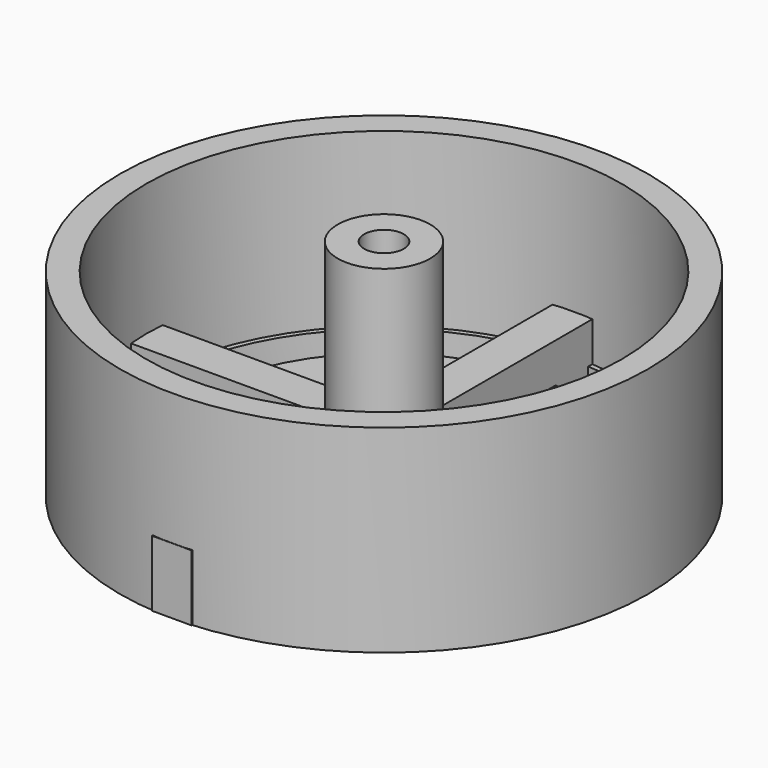
from build123d import *

# Parameters (mm, degrees)
F0_R      = 20
F1_DEPTH  = 15
F2_R      = 18
F3_DEPTH  = 13
F4_R      = 3.5
F4_R_2    = 1.5
F5_DEPTH  = 15
F6_R      = 17.615069
F6_R_2    = 14.536454
F7_DEPTH  = 25
F8_DEPTH  = 25
F9_W      = 3
F9_H      = 19.99929
F10_DEPTH = 5
F12_DEPTH = 5


with BuildPart() as f1:
    # F0 (on Top) → F1 (new body)
    with BuildSketch(Plane.XY):
        Circle(F0_R)
    extrude(amount=F1_DEPTH)

    # F2 (on face) → F3 (cut)
    with BuildSketch(Plane.XY.offset(15)):
        Circle(F2_R)
    extrude(amount=-F3_DEPTH, mode=Mode.SUBTRACT)

    # F4 (on face) → F5 (join)
    with BuildSketch(Plane.XY.offset(2)):
        Circle(F4_R)
        Circle(F4_R_2, mode=Mode.SUBTRACT)
    extrude(amount=F5_DEPTH)

    # F6 (on face) → F7 (cut)
    with BuildSketch(Plane(origin=(0, 0, 0), x_dir=(1, 0, 0), z_dir=(0, 0, -1))):
        Circle(F6_R)
        Circle(F6_R_2, mode=Mode.SUBTRACT)
    extrude(amount=-F7_DEPTH, mode=Mode.SUBTRACT)

    # F6 (on face) → F8 (cut)
    with BuildSketch(Plane(origin=(0, 0, 0), x_dir=(1, 0, 0), z_dir=(0, 0, -1))):
        Circle(F6_R)
        Circle(F6_R_2, mode=Mode.SUBTRACT)
    extrude(amount=-F8_DEPTH, mode=Mode.SUBTRACT)


with BuildPart() as f10:
    # F9 (on Top) → F10 (new body)
    with BuildSketch(Plane.XY):
        Polygon((-1.567621, 19.808128), (-1.567621, 0), (1.432379, 0), (1.432379, 19.735267), align=None)
        with Locations((-0.067621, -9.999645)):
            Rectangle(F9_W, F9_H)
    extrude(amount=F10_DEPTH)


with BuildPart() as f12:
    # F11 (on Top) → F12 (new body)
    with BuildSketch(Plane.XY):
        with BuildLine():
            Line((-1.292468, -1.533205), (-1.292468, -1.469076))
            ThreePointArc((-1.292468, -1.469076), (-1.254497, -1.501632), (-1.215706, -1.533205))
            Line((-1.215706, -1.533205), (1.215706, -1.533205))
            Line((1.215706, -1.533205), (18.215706, -1.533205))
            Line((18.215706, -1.533205), (18.215706, 1.466795))
            Line((18.215706, 1.466795), (1.215706, 1.466795))
            Line((1.215706, 1.466795), (1.215706, 1.469076))
            Line((1.215706, 1.469076), (-1.292468, 1.469076))
            Line((-1.292468, 1.469076), (-1.292468, 1.466795))
            Line((-1.292468, 1.466795), (-1.295057, 1.466795))
            Line((-1.295057, 1.466795), (-18.215706, 1.466795))
            Line((-18.215706, 1.466795), (-18.215706, -1.533205))
            Line((-18.215706, -1.533205), (-1.292468, -1.533205))
        make_face()
        with BuildLine():
            ThreePointArc((-1.215706, -1.533205), (-1.254497, -1.501632), (-1.292468, -1.469076))
            Line((-1.292468, -1.469076), (-1.292468, -1.533205))
            Line((-1.292468, -1.533205), (-1.215706, -1.533205))
        make_face()
        with BuildLine():
            ThreePointArc((-1.292468, 1.469076), (-1.293763, 1.467936), (-1.295057, 1.466795))
            Line((-1.295057, 1.466795), (-1.292468, 1.466795))
            Line((-1.292468, 1.466795), (-1.292468, 1.469076))
        make_face()
    extrude(amount=F12_DEPTH)


solid = Compound([f1.part, f10.part, f12.part])
